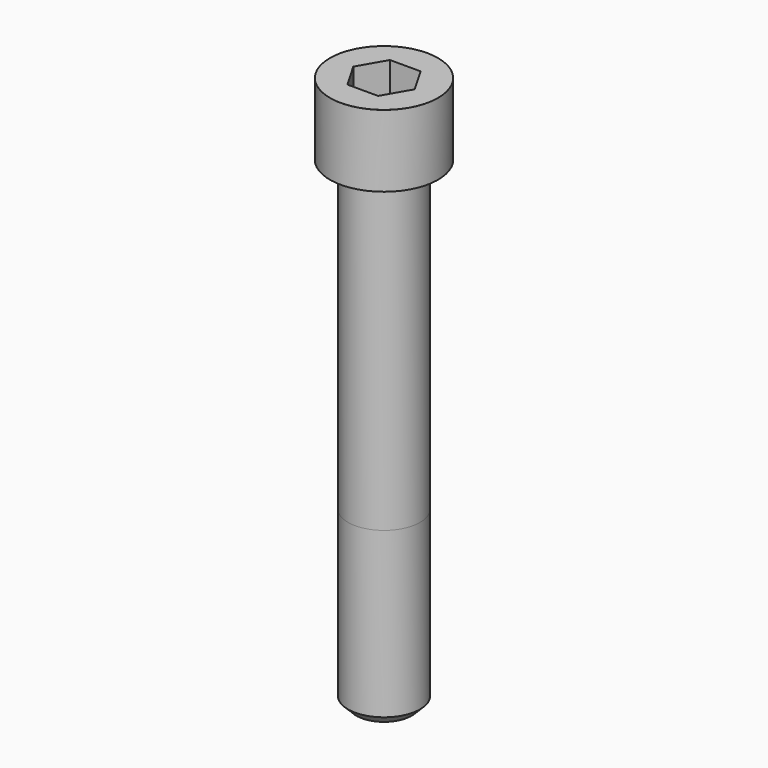
from build123d import *

# Parameters (mm, degrees)
POCKET_DEPTH = 22.15


with BuildPart() as part:
    # Sketch → Revolve (revolve)
    with BuildSketch(Plane.YZ):
        with BuildLine():
            Line((14.999, 0), (22.5, 0))
            Line((22.5, 0), (22.5, 29.97229))
            ThreePointArc((22.5, 29.97229), (22.491884, 29.991884), (22.47229, 30))
            Line((22.47229, 30), (0, 30))
            Line((0, -200), (0, 30))
            Line((11.5, -200), (0, -200))
            Line((15, -196.5), (11.5, -200))
            Line((15, -128), (15, -196.5))
            Line((14.999, 0), (15, -128))
        make_face()
    revolve(axis=Axis((0, 0, 0), (0, 0, 1)))

    # Sketch001 → Pocket (cut)
    with BuildSketch(Plane.XY.offset(30)):
        Polygon((12.788308, 0), (6.394154, 11.075), (-6.394154, 11.075), (-12.788308, 0), (-6.394154, -11.075), (6.394154, -11.075), align=None)
    extrude(amount=-POCKET_DEPTH, mode=Mode.SUBTRACT)


solid = part.part
